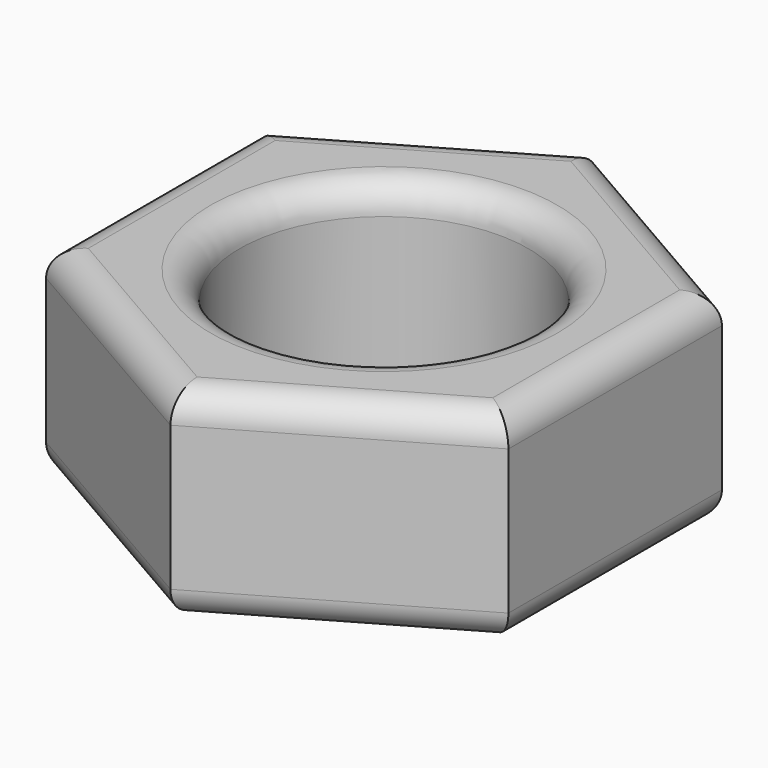
from build123d import *

# Parameters (mm, degrees)
F0_R     = 2.5
F1_DEPTH = 3.5
F2_R     = 0.5
F3_R     = 0.5


with BuildPart() as f1:
    # F0 (on Top) → F1 (new body)
    with BuildSketch(Plane.XY):
        Polygon((4, -2.309401), (4, 2.309401), (0, 4.618802), (-4, 2.309401), (-4, -2.309401), (0, -4.618802), align=None)
        Circle(F0_R, mode=Mode.SUBTRACT)
    extrude(amount=F1_DEPTH)

    # F2
    f2_edges = [f1.edges().sort_by_distance(p)[0] for p in [
        (4, 0, 3.5),
        (2, 3.464102, 3.5),
        (-2, 3.464102, 3.5),
        (-4, 0, 3.5),
        (-2, -3.464102, 3.5),
        (2, -3.464102, 3.5),
        (-2.5, 0, 3.5),
    ]]
    fillet(f2_edges, radius=F2_R)

    # F3
    f3_edges = [f1.edges().sort_by_distance(p)[0] for p in [
        (4, 0, 0),
        (2, 3.464102, 0),
        (-2, 3.464102, 0),
        (-4, 0, 0),
        (-2, -3.464102, 0),
        (2, -3.464102, 0),
        (-2.5, 0, 0),
    ]]
    fillet(f3_edges, radius=F3_R)


solid = f1.part
